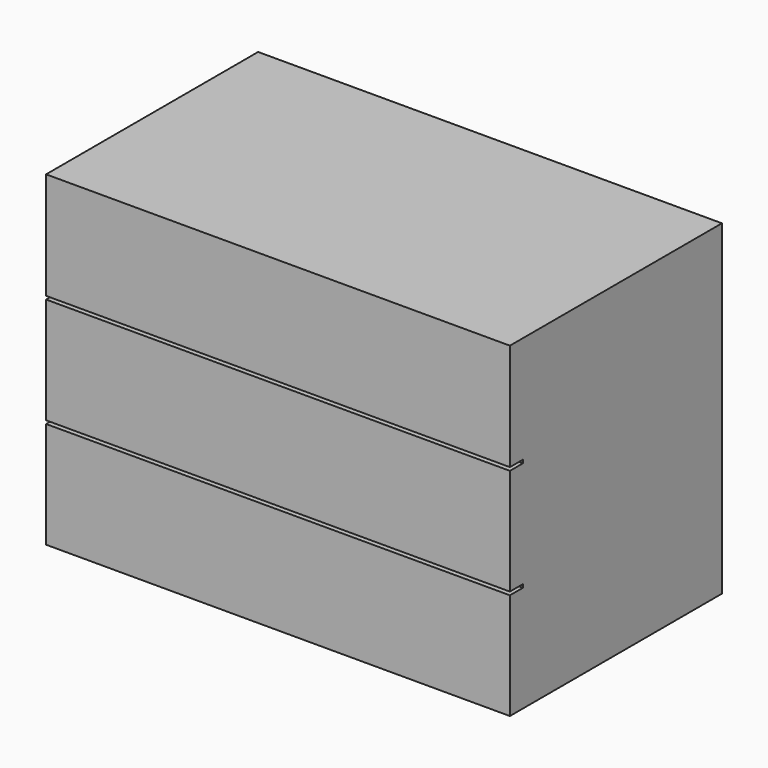
from build123d import *

# Parameters (mm, degrees)
F0_W     = 711.2
F0_H     = 406.4
F1_DEPTH = 500
F2_W     = 711.2
F2_H     = 5
F3_DEPTH = 25


with BuildPart() as f1:
    # F0 (on Top) → F1 (new body)
    with BuildSketch(Plane.XY):
        Rectangle(F0_W, F0_H)
    extrude(amount=F1_DEPTH)

    # F2 (on face) → F3 (cut)
    with BuildSketch(Plane.XZ.offset(203.2)):
        with Locations((0, 333.5)):
            Rectangle(F2_W, F2_H)
        with Locations((0, 165.5)):
            Rectangle(F2_W, F2_H)
    extrude(amount=-F3_DEPTH, mode=Mode.SUBTRACT)


solid = f1.part
